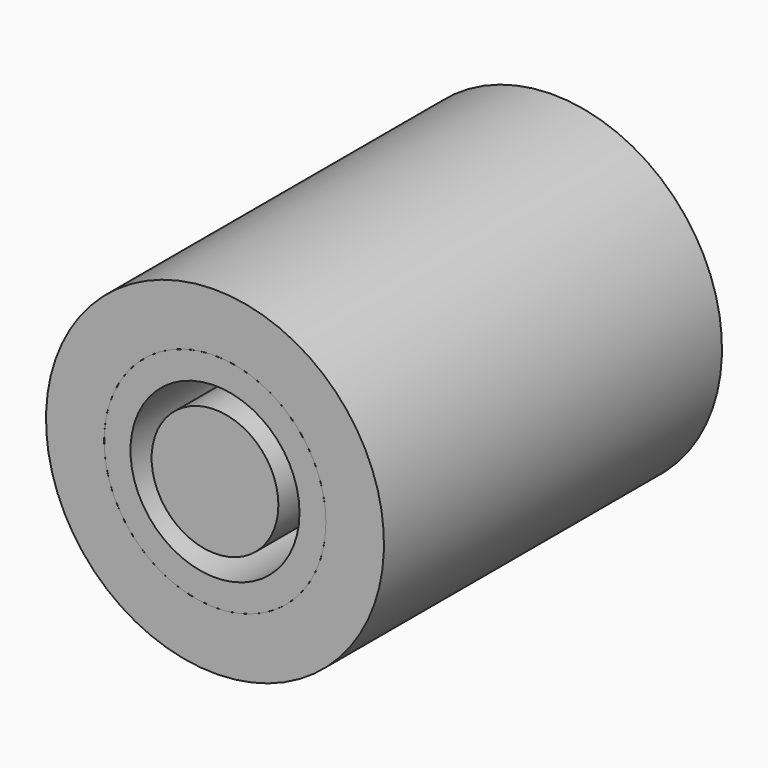
from build123d import *

# Parameters (mm, degrees)
F0_R      = 15
F1_DEPTH  = 100
F2_R      = 5
F3_DEPTH  = 25
F4_ANGLE  = 60
F5_R      = 5
F6_DEPTH  = 25
F7_R      = 5
F8_DEPTH  = 25
F9_ANGLE  = 45
F10_R     = 40
F10_R_2   = 26.25
F11_DEPTH = 100
F12_W     = 12
F12_H     = 26
F13_DEPTH = 29
F14_ANGLE = 60
F15_DEPTH = 18
F16_ANGLE = -60
F17_DEPTH = 18
F10_R_3   = 20
F18_DEPTH = 100
F19_DEPTH = 60.6


with BuildPart() as f1:
    # F0 (on Front) → F1 (new body)
    with BuildSketch(Plane.XZ):
        Circle(F0_R)
    extrude(amount=F1_DEPTH)


with BuildPart() as f3:
    # F2 (on Top) → F3 (new body)
    with BuildSketch(Plane.XY):
        with Locations((0, -23.225)):
            Circle(F2_R)
    extrude(amount=F3_DEPTH)


with BuildPart() as f3_1:
    # F4: moved
    add(f3.part.rotate(Axis((0, 0, 0), (0, 1, 0)), F4_ANGLE))


with BuildPart() as f6:
    # F5 (on Top) → F6 (new body)
    with BuildSketch(Plane.XY):
        with Locations((0, -46.5)):
            Circle(F5_R)
    extrude(amount=F6_DEPTH)


with BuildPart() as f8:
    # F7 (on Top) → F8 (new body)
    with BuildSketch(Plane.XY):
        with Locations((0, -69.675)):
            Circle(F7_R)
    extrude(amount=F8_DEPTH)


with BuildPart() as f8_1:
    # F9: moved
    add(f8.part.rotate(Axis((0, 0, 0), (0, 1, 0)), F9_ANGLE))


with BuildPart() as f11:
    # F10 (on Front) → F11 (new body)
    with BuildSketch(Plane.XZ):
        Circle(F10_R)
        Circle(F10_R_2, mode=Mode.SUBTRACT)
    extrude(amount=F11_DEPTH)

    # F12 (on Front) → F13 (cut)
    with BuildSketch(Plane.XZ):
        with Locations((0, 13)):
            Rectangle(F12_W, F12_H)
    extrude(amount=F13_DEPTH, mode=Mode.SUBTRACT)


with BuildPart() as f11_1:
    # F14: moved
    add(f11.part.rotate(Axis((0, 0, 0), (0, 1, 0)), F14_ANGLE))

    # F10 (on Front) → F17 (join)
    with BuildSketch(Plane.XZ):
        Circle(F10_R)
        Circle(F10_R_2, mode=Mode.SUBTRACT)
    extrude(amount=F17_DEPTH)


with BuildPart() as f15:
    # F12 (on Front) → F15 (new body)
    with BuildSketch(Plane.XZ):
        with Locations((0, 13)):
            Rectangle(F12_W, F12_H)
    extrude(amount=F15_DEPTH)


with BuildPart() as f15_1:
    # F16: moved
    add(f15.part.rotate(Axis((0, 0, 0), (0, -1, 0)), F16_ANGLE))


with BuildPart() as f18:
    # F10 (on Front) → F18 (new body)
    with BuildSketch(Plane.XZ):
        Circle(F10_R_2)
        Circle(F10_R_3, mode=Mode.SUBTRACT)
    extrude(amount=F18_DEPTH)

    # F19 (add): a face of the model
    f19_faces = [f18.faces().sort_by_distance(p)[0] for p in [
        (-25.5075378798, 0, 0),
    ]]
    extrude(f19_faces, amount=-F19_DEPTH)


solid = Compound([f1.part, f3_1.part, f6.part, f8_1.part, f11_1.part, f15_1.part, f18.part])
